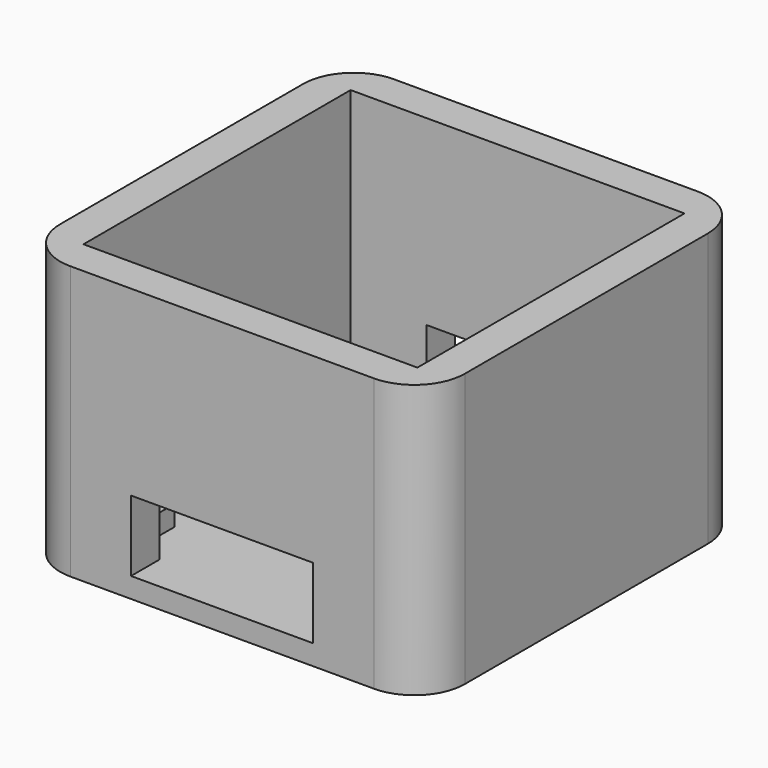
from build123d import *

# Parameters (mm, degrees)
F0_W     = 40
F0_H     = 40
F0_W_2   = 33
F0_H_2   = 33
F1_DEPTH = 25
F2_W     = 40
F2_H     = 40
F3_DEPTH = 2
F4_W     = 5
F4_H     = 5
F5_DEPTH = 2
F6_W     = 18
F6_H     = 3.5
F7_DEPTH = 7
F8_R     = 5


with BuildPart() as f1:
    # F0 (on Top) → F1 (new body)
    with BuildSketch(Plane.XY):
        Rectangle(F0_W, F0_H)
        Rectangle(F0_W_2, F0_H_2, mode=Mode.SUBTRACT)
    extrude(amount=F1_DEPTH)

    # F2 (on Top) → F3 (join)
    with BuildSketch(Plane.XY):
        Rectangle(F2_W, F2_H)
    extrude(amount=-F3_DEPTH)

    # F4 (on face) → F5 (join)
    with BuildSketch(Plane.XY):
        with Locations((-14, 14)):
            Rectangle(F4_W, F4_H)
        with Locations((14, 14)):
            Rectangle(F4_W, F4_H)
        with Locations((-14, -14)):
            Rectangle(F4_W, F4_H)
        with Locations((14, -14)):
            Rectangle(F4_W, F4_H)
    extrude(amount=F5_DEPTH)

    # F6 (on face) → F7 (cut)
    with BuildSketch(Plane.XY):
        with Locations((0, -18.25)):
            Rectangle(F6_W, F6_H)
        with Locations((0, 18.25)):
            Rectangle(F6_W, F6_H)
    extrude(amount=F7_DEPTH, mode=Mode.SUBTRACT)

    # F8
    f8_edges = [f1.edges().sort_by_distance(p)[0] for p in [
        (20, -20, 11.5),
        (-20, -20, 11.5),
        (20, 20, 11.5),
        (-20, 20, 11.5),
    ]]
    fillet(f8_edges, radius=F8_R)


solid = f1.part
